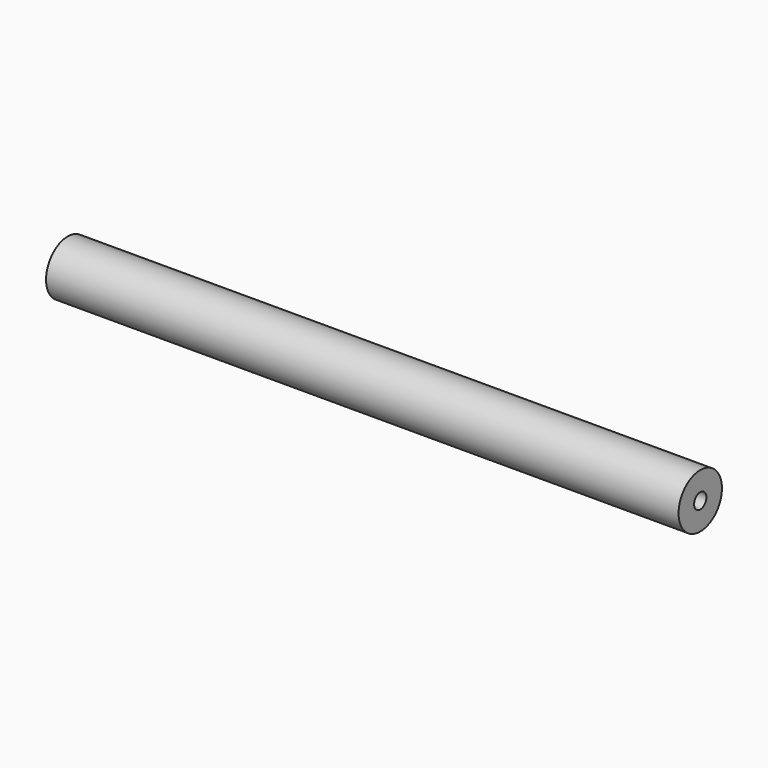
from build123d import *

# Parameters (mm, degrees)
F0_R     = 15
F1_DEPTH = 350
F3_D     = 8.5
F3_DEPTH = 32.4
F3_TIP   = 2.5536576309


with BuildPart() as f1:
    # F0 (on Right) → F1 (new body)
    with BuildSketch(Plane.YZ):
        Circle(F0_R)
    extrude(amount=F1_DEPTH)

    # F3
    with Locations(Plane.YZ.offset(350)):
        with Locations((0, 0)):
            Hole(F3_D / 2, depth=F3_DEPTH)
            with Locations((0, 0, -(F3_DEPTH + F3_TIP / 2))):  # 118° drill point
                Cone(0, F3_D / 2, F3_TIP, mode=Mode.SUBTRACT)


solid = f1.part
